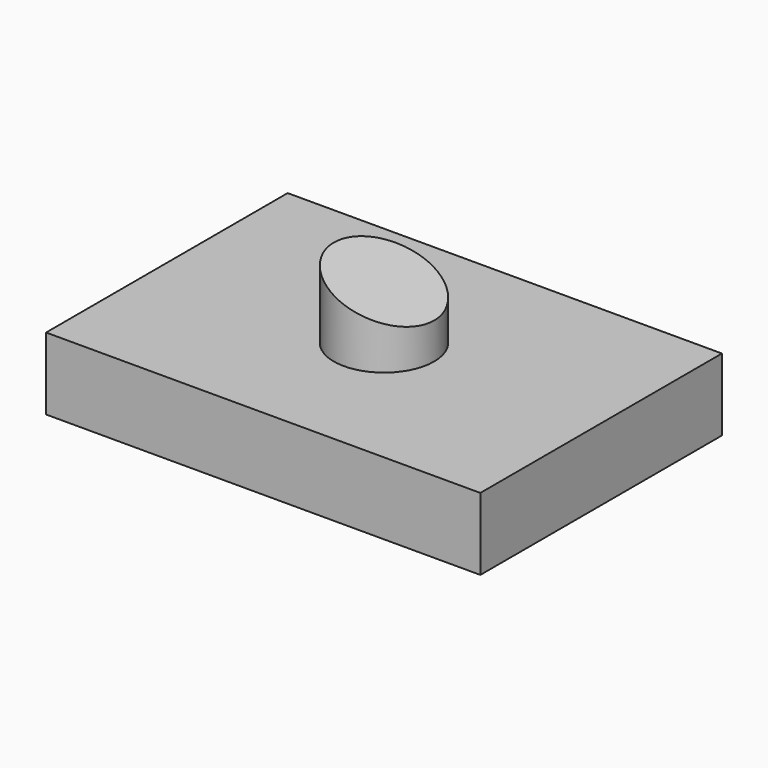
from build123d import *

# Parameters (mm, degrees)
F2_DEPTH = 25.4
F1_R     = 17.640779
F3_DEPTH = 50.8
F5_DEPTH = 106.248343


with BuildPart() as f2:
    # F0 (on Top) → F2 (new body)
    with BuildSketch(Plane.XY):
        Polygon((-76.394252, 49.22979), (-76.394252, -53.123672), (76.394252, -53.123672), (76.394252, 53.123672), (-76.394252, 53.123672), align=None)
    extrude(amount=F2_DEPTH)

    # F1 (on Top) → F3 (join)
    with BuildSketch(Plane.XY):
        Circle(F1_R)
    extrude(amount=F3_DEPTH)

    # F4 (on face) → F5 (cut, through all)
    with BuildSketch(Plane.XZ.offset(53.123672)):
        Polygon((17.640779, 50.8), (-17.640779, 50.8), (17.640779, 38.1), align=None)
    extrude(amount=-F5_DEPTH, mode=Mode.SUBTRACT)


solid = f2.part
